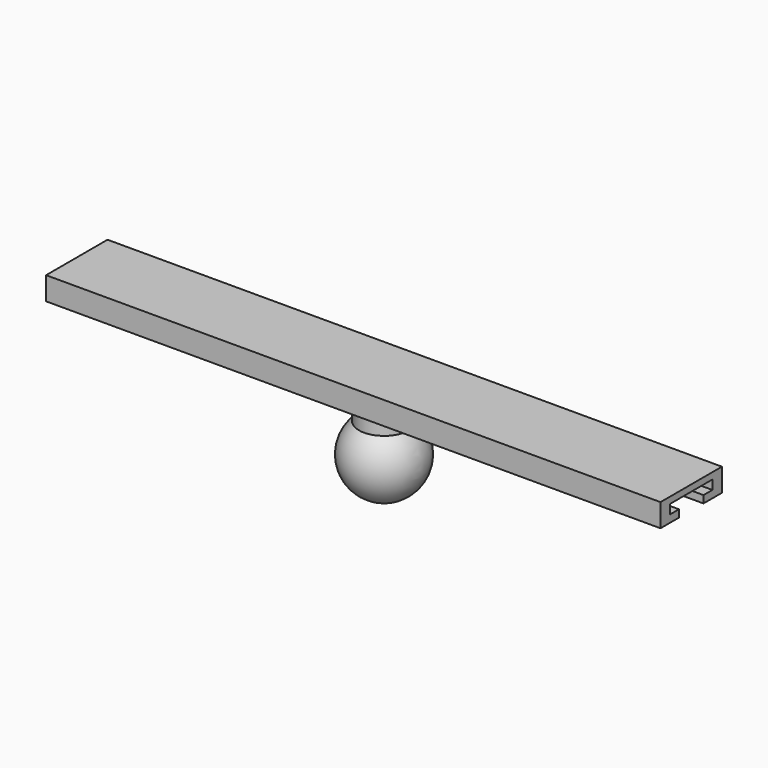
from build123d import *

# Parameters (mm, degrees)
F0_W     = 25.4
F0_H     = 7.62
F1_DEPTH = 101.6
F3_START = -25.4
F3_DEPTH = 93.726
F4_START = 25.4
F4_DEPTH = 101.6
F5_R     = 8.255
F6_DEPTH = 16.002


with BuildPart() as f1:
    # F0 (on Right) → F1 (new body, symmetric)
    with BuildSketch(Plane.YZ):
        Rectangle(F0_W, F0_H)
    extrude(amount=F1_DEPTH, both=True)

    # F2 (on Right) → F3 (cut)
    with BuildSketch(Plane.YZ.offset(F3_START)):
        Polygon((8.763, 1.6796102394), (-8.763, 1.6796102394), (-8.763, -1.3683897606), (-5.08, -1.3683897606), (-5.08, -3.827353653), (5.08, -3.827353653), (5.08, -1.3683897606), (8.763, -1.3683897606), align=None)
    extrude(amount=-F3_DEPTH, mode=Mode.SUBTRACT)

    # F2 (on Right) → F4 (cut)
    with BuildSketch(Plane.YZ.offset(F4_START)):
        Polygon((8.763, 1.6796102394), (-8.763, 1.6796102394), (-8.763, -1.3683897606), (-5.08, -1.3683897606), (-5.08, -3.827353653), (5.08, -3.827353653), (5.08, -1.3683897606), (8.763, -1.3683897606), align=None)
    extrude(amount=F4_DEPTH, mode=Mode.SUBTRACT)

    # F5 (on face) → F6 (join)
    with BuildSketch(Plane(origin=(0, 0, -3.81), x_dir=(1, 0, 0), z_dir=(0, 0, -1))):
        Circle(F5_R)
    extrude(amount=F6_DEPTH)


with BuildPart() as f8:
    # F7 (on Front) → F8 (revolve)
    with BuildSketch(Plane.XZ):
        with BuildLine():
            Line((0, -20.4544011503), (0, -33.1544011503))
            ThreePointArc((0, -33.1544011503), (12.7, -20.4544011503), (0, -7.7544011503))
            Line((0, -7.7544011503), (0, -20.4544011503))
        make_face()
    revolve(axis=Axis((0, 0, -26.8044011503), (0, 0, -1)))


solid = Compound([f1.part, f8.part])
